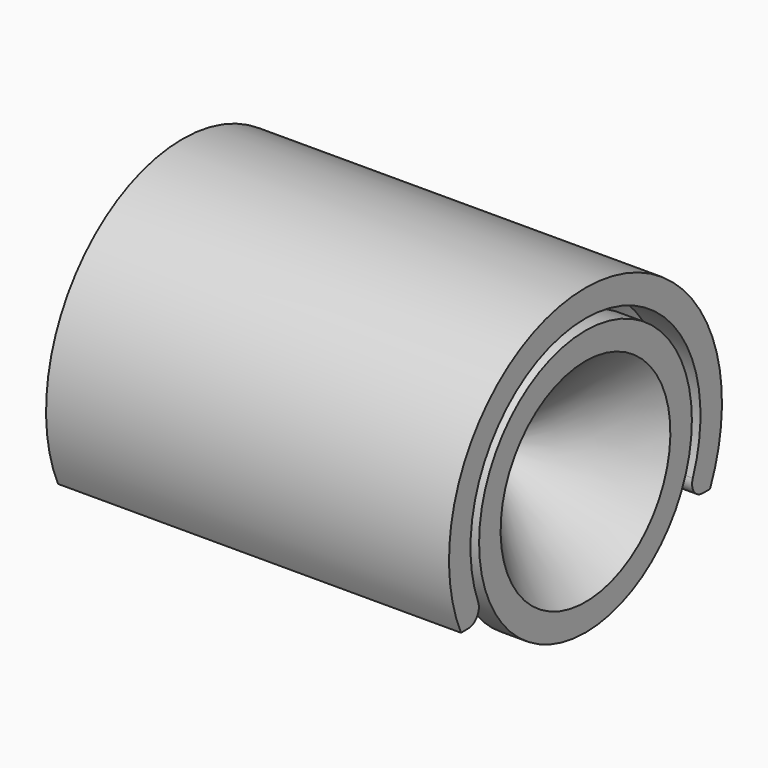
from build123d import *

# Parameters (mm, degrees)
F9_W      = 15
F9_H      = 7.5
F11_DEPTH = 12.7
F15_R     = 1


with BuildPart() as f10:
    # F8 (on face) → F10 (revolve)
    with BuildSketch(Plane.XZ):
        with BuildLine():
            Line((-15, 12.7), (-15, 10.7))
            Line((-15, 10.7), (-12.2, 10.7))
            Line((-12.2, 10.7), (-8.4176005846, 5.7663121592))
            ThreePointArc((-8.4176005846, 5.7663121592), (-7.0130678726, 4.6128875566), (-5.2431457505, 4.2))
            Line((-5.2431457505, 4.2), (0, 4.2))
            Line((0, 4.2), (0, 12.7))
            Line((0, 12.7), (-15, 12.7))
        make_face()
    revolve(axis=Axis((-7.5, 0, 0), (1, 0, 0)))

    # F9 (on face) → F11 (cut, symmetric)
    with BuildSketch(Plane.XZ):
        with Locations((-7.5, -8.95)):
            Rectangle(F9_W, F9_H)
    extrude(amount=F11_DEPTH, both=True, mode=Mode.SUBTRACT)

    # F14: F10 across face


with BuildPart() as f12:
    # F6 (on Front) → F12 (revolve)
    with BuildSketch(Plane.XZ):
        with BuildLine():
            Line((-7.1, 0), (0, 0))
            Line((0, 0), (0, 4))
            Line((0, 4), (-5.4431457505, 4))
            ThreePointArc((-5.4431457505, 4), (-6.97387948, 4.30448187), (-8.2715728753, 5.1715728753))
            Line((-8.2715728753, 5.1715728753), (-13, 9.9))
            Line((-13, 9.9), (-15, 9.9))
            Line((-15, 9.9), (-15, 7.9))
            Line((-15, 7.9), (-7.1, 0))
        make_face()
    revolve(axis=Axis((-3.55, 0, 0), (-1, 0, 0)))

    # F13: F12 across face


with BuildPart() as f12_1:
    add(f12.part)
    add(f12.part.mirror(Plane.YZ))


with BuildPart() as f10_1:
    add(f10.part)
    add(f10.part.mirror(Plane(origin=(0, 0, 3.1787816923), x_dir=(0, 1, 0), z_dir=(1, 0, 0))))

    # F15
    f15_edges = [f10_1.edges().sort_by_distance(p)[0] for p in [
        (-13.6, -9.35147, -5.2),
        (-13.6, 9.35147, -5.2),
        (13.6, -9.35147, -5.2),
        (13.6, 9.35147, -5.2),
    ]]
    fillet(f15_edges, radius=F15_R)


solid = Compound([f12_1.part, f10_1.part])
